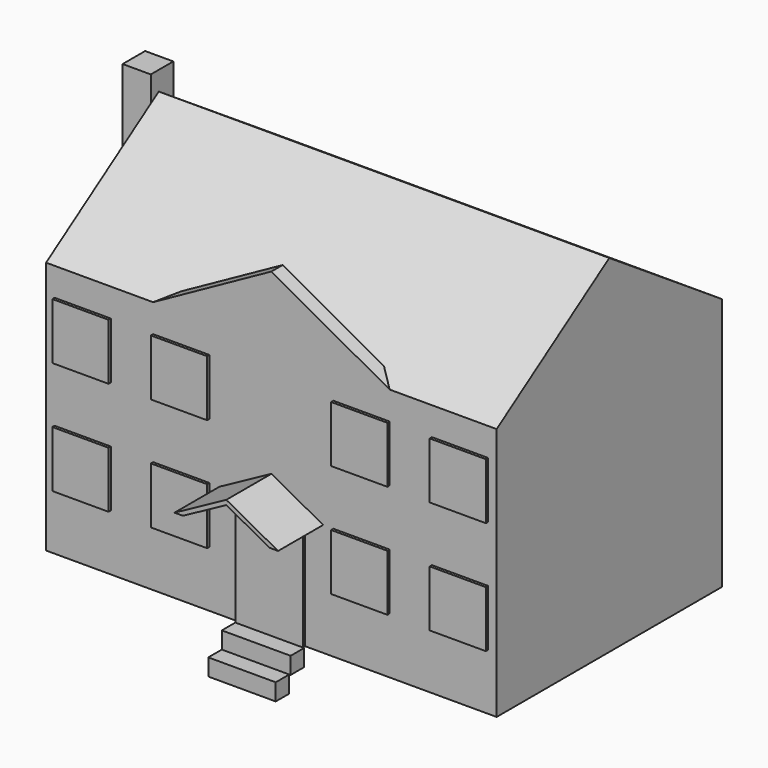
from build123d import *

# Parameters (mm, degrees)
F0_W      = 203.2
F0_H      = 114.3
F1_DEPTH  = 127
F3_DEPTH  = 203.2
F4_W      = 30.48
F4_H      = 50.8
F5_DEPTH  = 1.27
F6_W      = 25.4
F6_H      = 25.412709
F7_DEPTH  = 1.27
F9_DEPTH  = 25.4
F10_W     = 12.7
F10_H     = 12.7
F11_DEPTH = 12.7
F12_W     = 12.7
F12_H     = 12.7
F13_DEPTH = 25.4
F14_W     = 31.0388
F14_H     = 7.62
F15_DEPTH = 7.62
F16_W     = 30.419408
F16_H     = 7.62
F17_DEPTH = 7.62
F19_DEPTH = 6.35
F20_W     = 22.86
F20_H     = 33.02
F21_DEPTH = 1.27


with BuildPart() as f1:
    # F0 (on Front) → F1 (new body)
    with BuildSketch(Plane.XZ):
        with Locations((-11.19769, 1.741793)):
            Rectangle(F0_W, F0_H)
    extrude(amount=F1_DEPTH)

    # F2 (on face) → F3 (join)
    with BuildSketch(Plane.YZ.offset(90.40231)):
        Polygon((-127, 58.891793), (-63.5, 58.891793), (0, 58.891793), (-63.5, 101.012928), align=None)
    extrude(amount=-F3_DEPTH)

    # F4 (on face) → F5 (join)
    with BuildSketch(Plane.XZ.offset(127)):
        with Locations((-11.19769, -30.008207)):
            Rectangle(F4_W, F4_H)
    extrude(amount=F5_DEPTH)

    # F6 (on face) → F7 (join)
    with BuildSketch(Plane.XZ.offset(127)):
        with Locations((-96.28769, 33.498148)):
            Rectangle(F6_W, F6_H)
        with Locations((-51.83769, 33.498148)):
            Rectangle(F6_W, F6_H)
        with Locations((29.44231, 33.498148)):
            Rectangle(F6_W, F6_H)
        with Locations((73.89231, 33.498148)):
            Rectangle(F6_W, F6_H)
        with Locations((73.89231, -17.314561)):
            Rectangle(F6_W, F6_H)
        with Locations((29.44231, -17.314561)):
            Rectangle(F6_W, F6_H)
        with Locations((-51.83769, -17.314561)):
            Rectangle(F6_W, F6_H)
        with Locations((-96.28769, -17.314561)):
            Rectangle(F6_W, F6_H)
    extrude(amount=F7_DEPTH)

    # F8 (on face) → F9 (join)
    with BuildSketch(Plane.XZ.offset(127)):
        Polygon((-11.19769, 8.091793), (-34.56569, -4.608207), (-30.75569, -4.608207), (-11.19769, 6.021141), align=None)
        Polygon((12.17031, -4.608207), (-11.19769, 8.091793), (-11.19769, 6.021141), (8.36031, -4.608207), align=None)
    extrude(amount=F9_DEPTH)

    # F10 (on face) → F11 (join)
    with BuildSketch(Plane(origin=(-112.79769, 0, 0), x_dir=(0, -1, 0), z_dir=(-1, 0, 0))):
        with Locations((61.636049, 77.883792)):
            Rectangle(F10_W, F10_H)
    extrude(amount=F11_DEPTH)

    # F12 (on face) → F13 (join)
    with BuildSketch(Plane.XY.offset(84.233792)):
        with Locations((-119.14769, -61.636049)):
            Rectangle(F12_W, F12_H)
    extrude(amount=F13_DEPTH)

    # F18 (on face) → F19 (join)
    with BuildSketch(Plane.XZ.offset(127)):
        Polygon((-11.19769, 88.403926), (-64.53769, 58.891793), (42.14231, 58.891793), align=None)
    extrude(amount=-F19_DEPTH)

    # F20 (on face) → F21 (join)
    with BuildSketch(Plane(origin=(-112.79769, 0, 0), x_dir=(0, -1, 0), z_dir=(-1, 0, 0))):
        with Locations((22.062745, 42.381793)):
            Rectangle(F20_W, F20_H)
        with Locations((101.209353, 42.381793)):
            Rectangle(F20_W, F20_H)
        with Locations((101.209353, -14.770747)):
            Rectangle(F20_W, F20_H)
        with Locations((22.062745, -14.770747)):
            Rectangle(F20_W, F20_H)
    extrude(amount=F21_DEPTH)


with BuildPart() as f15:
    # F14 (on face) → F15 (new body)
    with BuildSketch(Plane(origin=(0, 0, -55.408207), x_dir=(1, 0, 0), z_dir=(0, 0, -1))):
        with Locations((-10.91829, 132.08)):
            Rectangle(F14_W, F14_H)
    extrude(amount=F15_DEPTH)


with BuildPart() as f17:
    # F16 (on face) → F17 (new body)
    with BuildSketch(Plane(origin=(0, 0, -63.028207), x_dir=(1, 0, 0), z_dir=(0, 0, -1))):
        with Locations((-11.227986, 139.7)):
            Rectangle(F16_W, F16_H)
    extrude(amount=F17_DEPTH)


solid = Compound([f1.part, f15.part, f17.part])
